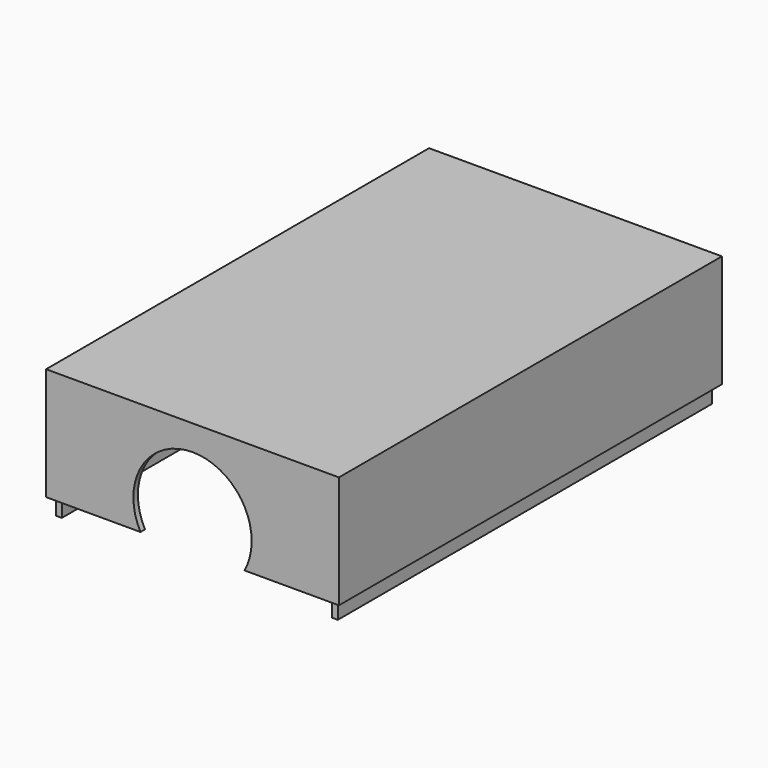
from build123d import *

# Parameters (mm, degrees)
F0_W     = 52
F0_H     = 85
F1_DEPTH = 20
F2_W     = 48
F2_H     = 83
F3_DEPTH = 18
F4_W     = 1
F4_H     = 83
F5_DEPTH = 3
F7_DEPTH = 25
F9_DEPTH = 25


with BuildPart() as f1:
    # F0 (on Top) → F1 (new body)
    with BuildSketch(Plane.XY):
        Rectangle(F0_W, F0_H)
    extrude(amount=F1_DEPTH)

    # F2 (on face) → F3 (cut)
    with BuildSketch(Plane(origin=(0, 0, 0), x_dir=(1, 0, 0), z_dir=(0, 0, -1))):
        Rectangle(F2_W, F2_H)
    extrude(amount=-F3_DEPTH, mode=Mode.SUBTRACT)

    # F4 (on face) → F5 (join)
    with BuildSketch(Plane(origin=(0, 0, 0), x_dir=(1, 0, 0), z_dir=(0, 0, -1))):
        with Locations((-24.5, 0)):
            Rectangle(F4_W, F4_H)
        with Locations((24.5, 0)):
            Rectangle(F4_W, F4_H)
    extrude(amount=F5_DEPTH)

    # F6 (on face) → F7 (cut)
    with BuildSketch(Plane(origin=(0, 42.5, 0), x_dir=(-1, 0, 0), z_dir=(0, 1, 0))):
        Polygon((-20, 0), (0, 0), (20, 0), (20, 9), (-20, 9), align=None)
    extrude(amount=-F7_DEPTH, mode=Mode.SUBTRACT)

    # F8 (on face) → F9 (cut)
    with BuildSketch(Plane.XZ.offset(42.5)):
        with BuildLine():
            ThreePointArc((10.5, 5), (7.424621, 12.424621), (0, 15.5))
            ThreePointArc((0, 15.5), (-9.020809, 10.373546), (-9.233093, 0))
            Line((-9.233093, 0), (9.233093, 0))
            ThreePointArc((9.233093, 0), (10.178346, 2.420996), (10.5, 5))
        make_face()
    extrude(amount=-F9_DEPTH, mode=Mode.SUBTRACT)


solid = f1.part
